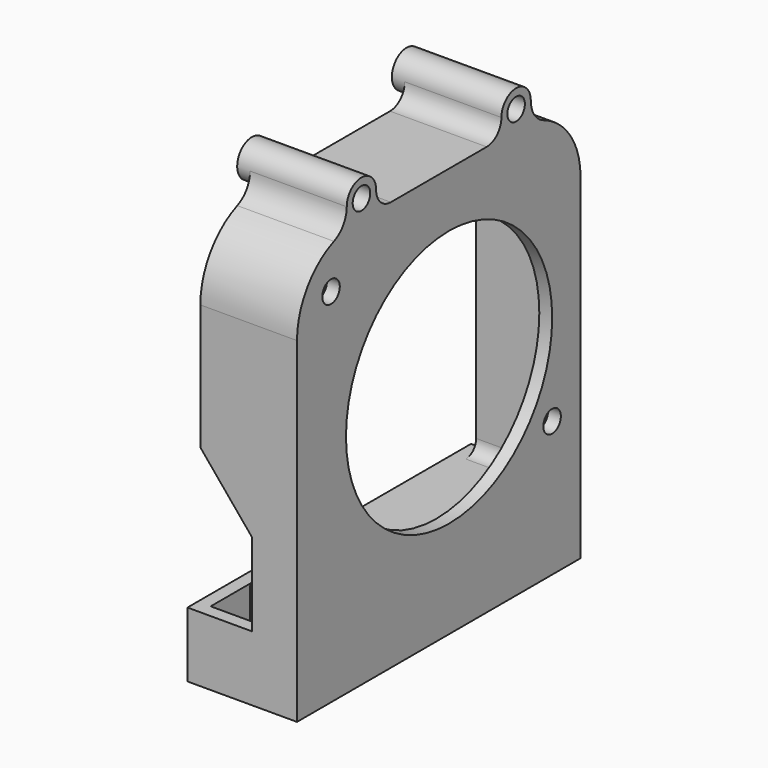
from build123d import *

# Parameters (mm, degrees)
PAD014_DEPTH    = 17
POCKET010_DEPTH = 15
SKETCH035_R     = 1.7
SKETCH035_R_2   = 20
POCKET011_DEPTH = 17
SKETCH036_W     = 0.5
SKETCH036_H     = 10.1
PAD015_DEPTH    = 13
SKETCH037_W     = 52
SKETCH037_H     = 10.1
PAD016_DEPTH    = 2
SKETCH038_W     = 53.5
SKETCH038_H     = 2
POCKET012_DEPTH = 55
POCKET013_DEPTH = 2
POCKET014_DEPTH = 1.5


with BuildPart() as part:
    # Sketch033 → Pad014 (new body)
    with BuildSketch(Plane.YZ):
        with BuildLine():
            Line((27.5, -61.35), (-27.5, -61.35))
            Line((-27.5, -51.25), (-27.5, -61.35))
            Line((-27.5, -9.2536580703), (-27.5, -51.25))
            ThreePointArc((-20.3403225806, 1.3958301754), (-25.5436814091, -2.837417336), (-27.5, -9.2536580703))
            ThreePointArc((-20.3403225806, 1.3958301754), (-18.5304586403, 2.8682640924), (-17.85, 5.1))
            ThreePointArc((-12.15, 5.1), (-15, 7.95), (-17.85, 5.1))
            ThreePointArc((-12.15, 5.1), (-11.3152543264, 3.0847456736), (-9.3, 2.25))
            Line((-9.3, 2.25), (9.3, 2.25))
            ThreePointArc((9.3, 2.25), (11.3152543264, 3.0847456736), (12.15, 5.1))
            ThreePointArc((17.85, 5.1), (15, 7.95), (12.15, 5.1))
            ThreePointArc((17.85, 5.1), (18.5304586403, 2.8682640924), (20.3403225806, 1.3958301754))
            ThreePointArc((27.5, -9.2536580703), (25.5436814091, -2.837417336), (20.3403225806, 1.3958301754))
            Line((27.5, -9.2536580703), (27.5, -51.25))
            Line((27.5, -51.25), (27.5, -61.35))
        make_face()
    extrude(amount=-PAD014_DEPTH)

    # Sketch034 (on Face16 of Pad014) → Pocket010 (cut)
    with BuildSketch(Plane(origin=(-17, 0, 0), x_dir=(0, -1, 0), z_dir=(-1, 0, 0))):
        with BuildLine():
            Line((26, -9.2536580703), (26, -61.35))
            Line((-26, -61.35), (26, -61.35))
            Line((-26, -61.35), (-26, -9.2536580703))
            ThreePointArc((-16, 0.7463419297), (-23.0710678119, -2.1825902585), (-26, -9.2536580703))
            Line((16, 0.7463419297), (-16, 0.7463419297))
            ThreePointArc((26, -9.2536580703), (23.0710678119, -2.1825902585), (16, 0.7463419297))
        make_face()
    extrude(amount=-POCKET010_DEPTH, mode=Mode.SUBTRACT)

    # Sketch035 (on Face4 of Pocket010) → Pocket011 (cut)
    with BuildSketch(Plane.YZ):
        with Locations((-15, 5.1)):
            Circle(SKETCH035_R)
        with Locations((15, 5.1)):
            Circle(SKETCH035_R)
        with Locations((-20.9, -5.25)):
            Circle(SKETCH035_R)
        with Locations((2, -26.25)):
            Circle(SKETCH035_R_2)
        with Locations((21.982166, -40.391422)):
            Circle(SKETCH035_R)
    extrude(amount=-POCKET011_DEPTH, mode=Mode.SUBTRACT)

    # Sketch036 (on Face27 of Pocket011) → Pad015 (join)
    with BuildSketch(Plane(origin=(-2, 0, 0), x_dir=(0, -1, 0), z_dir=(-1, 0, 0))):
        with BuildLine():
            ThreePointArc((17.9, -51.85), (17.3390474824, -51.2512719364), (16.7050823529, -51.7720705882))
            ThreePointArc((7.5, -59.85), (13.623448471, -57.5441622111), (16.7050823529, -51.7720705882))
            Line((7.5, -59.85), (-15.5, -59.85))
            ThreePointArc((-15.5, -59.85), (-16.2071067812, -60.1428932188), (-16.5, -60.85))
            Line((-16.5, -60.85), (-16.5, -61.35))
            Line((17.9, -61.35), (-16.5, -61.35))
            Line((17.9, -51.85), (17.9, -61.35))
        make_face()
        with Locations((25.75, -56.3)):
            Rectangle(SKETCH036_W, SKETCH036_H)
        with BuildLine():
            Line((-26, -49.25), (-26, -55.75))
            ThreePointArc((-23, -52.75), (-25.1213203436, -53.6286796564), (-26, -55.75))
            Line((7.5, -52.75), (-23, -52.75))
            Line((7.5, -51.25), (7.5, -52.75))
            Line((7.5, -51.25), (-24, -51.25))
            ThreePointArc((-26, -49.25), (-25.4142135624, -50.6642135624), (-24, -51.25))
        make_face()
    extrude(amount=PAD015_DEPTH)

    # Sketch037 (on Face31 of Pad015) → Pad016 (join)
    with BuildSketch(Plane(origin=(-15, 0, 0), x_dir=(0, -1, 0), z_dir=(-1, 0, 0))):
        with Locations((0, -56.3)):
            Rectangle(SKETCH037_W, SKETCH037_H)
    extrude(amount=PAD016_DEPTH)

    # Sketch038 (on Face11 of Pad016) → Pocket012 (cut)
    with BuildSketch(Plane(origin=(0, -27.5, 0), x_dir=(0, 0, 1), z_dir=(0, -1, 0))):
        with Locations((-24.5, 16)):
            Rectangle(SKETCH038_W, SKETCH038_H)
    extrude(amount=-POCKET012_DEPTH, mode=Mode.SUBTRACT)

    # Sketch039 (on Face33 of Pocket012) → Pocket013 (cut)
    with BuildSketch(Plane(origin=(-17, 0, 0), x_dir=(0, -1, 0), z_dir=(-1, 0, 0))):
        with BuildLine():
            ThreePointArc((-17.85, 5.1), (-15, 2.25), (-12.15, 5.1))
            Line((-9.3, 5.1), (-12.15, 5.1))
            Line((-9.3, 5.1), (-9.3, 0))
            Line((-9.3, 0), (-19.0433115599, 0))
            Line((-19.0433115599, 0), (-19.0433115599, 5.1))
            Line((-17.85, 5.1), (-19.0433115599, 5.1))
        make_face()
        with BuildLine():
            ThreePointArc((12.15, 5.1), (15, 2.25), (17.85, 5.1))
            Line((17.85, 5.1), (19.0433115599, 5.1))
            Line((19.0433115599, 5.1), (19.0433115599, 0))
            Line((19.0433115599, 0), (9.3, 0))
            Line((9.3, 0), (9.3, 5.1))
            Line((9.3, 5.1), (12.15, 5.1))
        make_face()
    extrude(amount=-POCKET013_DEPTH, mode=Mode.SUBTRACT)

    # Sketch040 (on Face11 of Pocket013) → Pocket014 (cut)
    with BuildSketch(Plane(origin=(0, -27.5, 0), x_dir=(0, 0, 1), z_dir=(0, -1, 0))):
        Polygon((-51.25, 15), (-51.25, 7), (-38.3735294118, 7), (-28.7264705882, 15), align=None)
    extrude(amount=-POCKET014_DEPTH, mode=Mode.SUBTRACT)


with BuildPart() as part_1:
    # Body006 placement: moved
    add(part.part.moved(Location((35, 0, 0))))


solid = part_1.part
